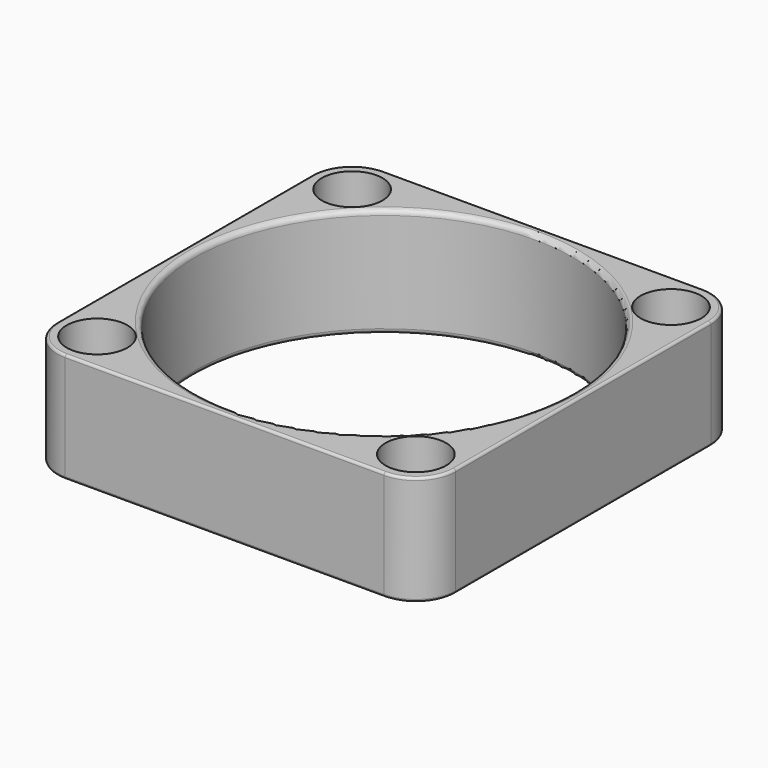
from build123d import *

# Parameters (mm, degrees)
SKETCH081_W         = 40
SKETCH081_H         = 40
PAD032_DEPTH        = 11
SKETCH076_R         = 19
POCKET018_DEPTH     = 11.001
HOLE008_D           = 3.9
HOLE008_DEPTH       = 25
HOLE008_CBORE_D     = 6.1
HOLE008_CBORE_DEPTH = 3.9
FILLET032_R         = 4
FILLET028_R         = 0.5
FILLET030_R         = 0.25


with BuildPart() as part:
    # Sketch081 → Pad032 (new body)
    with BuildSketch(Plane.XY):
        Rectangle(SKETCH081_W, SKETCH081_H)
    extrude(amount=PAD032_DEPTH)

    # Sketch076 (on Face6 of Pad032) → Pocket018 (cut, through all)
    with BuildSketch(Plane.XY.offset(11)):
        Circle(SKETCH076_R)
    extrude(amount=-POCKET018_DEPTH, mode=Mode.SUBTRACT)

    # Hole008
    with Locations(Plane.XY.offset(11)):
        with Locations((16, 16), (16, -16), (-16, 16), (-16, -16)):
            CounterBoreHole(HOLE008_D / 2, HOLE008_CBORE_D / 2, HOLE008_CBORE_DEPTH, depth=HOLE008_DEPTH)

    # Fillet032
    fillet032_edges = [part.edges().sort_by_distance(p)[0] for p in [
        (20, 20, 5.5),
        (-20, 20, 5.5),
        (-20, -20, 5.5),
        (20, -20, 5.5),
    ]]
    fillet(fillet032_edges, radius=FILLET032_R)

    # Fillet028
    fillet028_edges = [part.edges().sort_by_distance(p)[0] for p in [
        (-19, 0, 11),
        (19, 0, 5.5),
        (-19, 0, 0),
    ]]
    fillet(fillet028_edges, radius=FILLET028_R)

    # Fillet030
    fillet030_edges = [part.edges().sort_by_distance(p)[0] for p in [
        (0, -20, 0),
        (16, -20, 5.5),
        (-16, -20, 5.5),
        (0, -20, 11),
        (20, 0, 0),
        (20, 16, 5.5),
        (20, -16, 5.5),
        (20, 0, 11),
        (0, 20, 0),
        (-16, 20, 5.5),
        (16, 20, 5.5),
        (0, 20, 11),
        (-20, 0, 0),
        (-20, -16, 5.5),
        (-20, 16, 5.5),
        (-20, 0, 11),
    ]]
    fillet(fillet030_edges, radius=FILLET030_R)


solid = part.part
